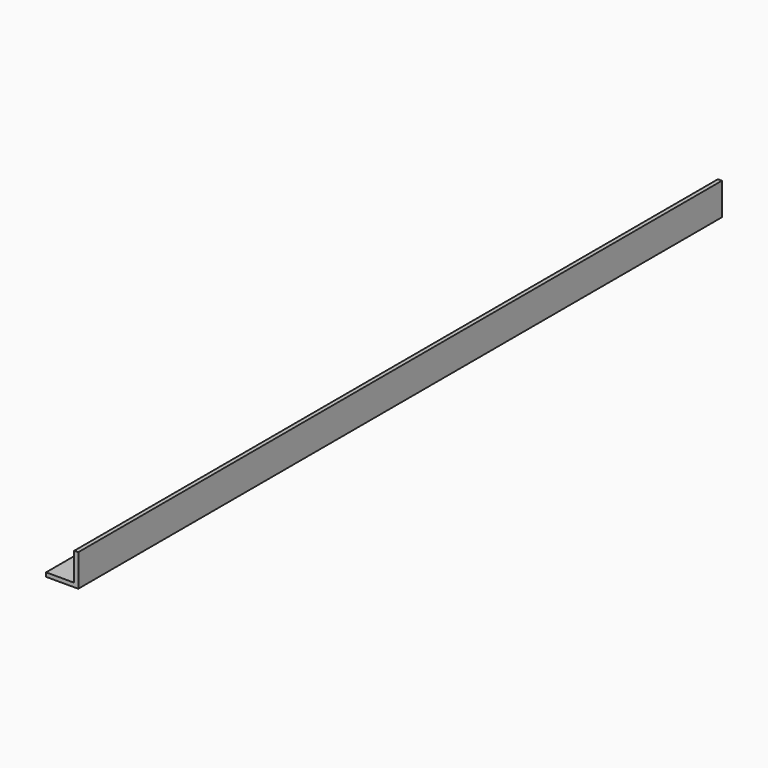
from build123d import *

# Parameters (mm, degrees)
F0_W     = 3.5
F0_H     = 100
F1_DEPTH = 0.5
F0_W_2   = 0.5
F2_DEPTH = 4


with BuildPart() as f1:
    # F0 (on Top) → F1 (new body)
    with BuildSketch(Plane.XY):
        with Locations((-35.29717, 3.542452)):
            Rectangle(F0_W, F0_H)
    extrude(amount=F1_DEPTH)

    # F0 (on Top) → F2 (join)
    with BuildSketch(Plane.XY):
        with Locations((-33.29717, 3.542452)):
            Rectangle(F0_W_2, F0_H)
    extrude(amount=F2_DEPTH)


solid = f1.part
